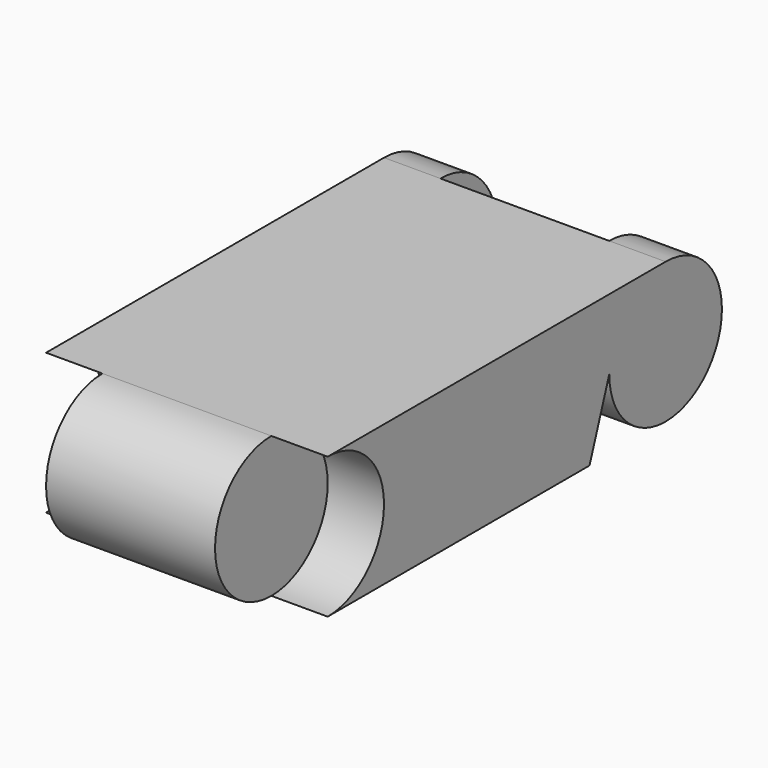
from build123d import *

# Parameters (mm, degrees)
F1_DEPTH = 12.7
F2_START = 7.62
F2_DEPTH = 5.08
F3_START = -7.62
F3_DEPTH = 5.08
F4_DEPTH = 7.62


with BuildPart() as f1:
    # F0 (on Right) → F1 (new body, symmetric)
    with BuildSketch(Plane.YZ):
        with BuildLine():
            ThreePointArc((12.7, 0), (14.5598719395, 4.4901280605), (19.05, 6.35))
            Line((19.05, 6.35), (-19.05, 6.35))
            ThreePointArc((-19.05, 6.35), (-14.5598719395, 4.4901280605), (-12.7, 0))
            ThreePointArc((-12.7, 0), (-14.5598719395, -4.4901280605), (-19.05, -6.35))
            Line((-19.05, -6.35), (10.4731516913, -6.35))
            Line((10.4731516913, -6.35), (12.7, 0))
        make_face()
    extrude(amount=F1_DEPTH, both=True)

    # F0 (on Right) → F2 (join)
    with BuildSketch(Plane.YZ.offset(F2_START)):
        with BuildLine():
            ThreePointArc((25.4, 0), (23.5401280605, 4.4901280605), (19.05, 6.35))
            Line((19.05, 6.35), (19.05, -6.35))
            ThreePointArc((19.05, -6.35), (23.5401280605, -4.4901280605), (25.4, 0))
        make_face()
        with BuildLine():
            Line((19.05, -6.35), (19.05, 6.35))
            ThreePointArc((19.05, 6.35), (14.5598719395, 4.4901280605), (12.7, 0))
            ThreePointArc((12.7, 0), (14.5598719395, -4.4901280605), (19.05, -6.35))
        make_face()
    extrude(amount=F2_DEPTH)

    # F0 (on Right) → F3 (join)
    with BuildSketch(Plane.YZ.offset(F3_START)):
        with BuildLine():
            ThreePointArc((25.4, 0), (23.5401280605, 4.4901280605), (19.05, 6.35))
            Line((19.05, 6.35), (19.05, -6.35))
            ThreePointArc((19.05, -6.35), (23.5401280605, -4.4901280605), (25.4, 0))
        make_face()
        with BuildLine():
            Line((19.05, -6.35), (19.05, 6.35))
            ThreePointArc((19.05, 6.35), (14.5598719395, 4.4901280605), (12.7, 0))
            ThreePointArc((12.7, 0), (14.5598719395, -4.4901280605), (19.05, -6.35))
        make_face()
    extrude(amount=-F3_DEPTH)

    # F0 (on Right) → F4 (join, symmetric)
    with BuildSketch(Plane.YZ):
        with BuildLine():
            ThreePointArc((-12.7, 0), (-14.5598719395, 4.4901280605), (-19.05, 6.35))
            Line((-19.05, 6.35), (-19.05, -6.35))
            ThreePointArc((-19.05, -6.35), (-14.5598719395, -4.4901280605), (-12.7, 0))
        make_face()
        with BuildLine():
            Line((-19.05, -6.35), (-19.05, 6.35))
            ThreePointArc((-19.05, 6.35), (-25.4, 0), (-19.05, -6.35))
        make_face()
    extrude(amount=F4_DEPTH, both=True)


solid = f1.part
